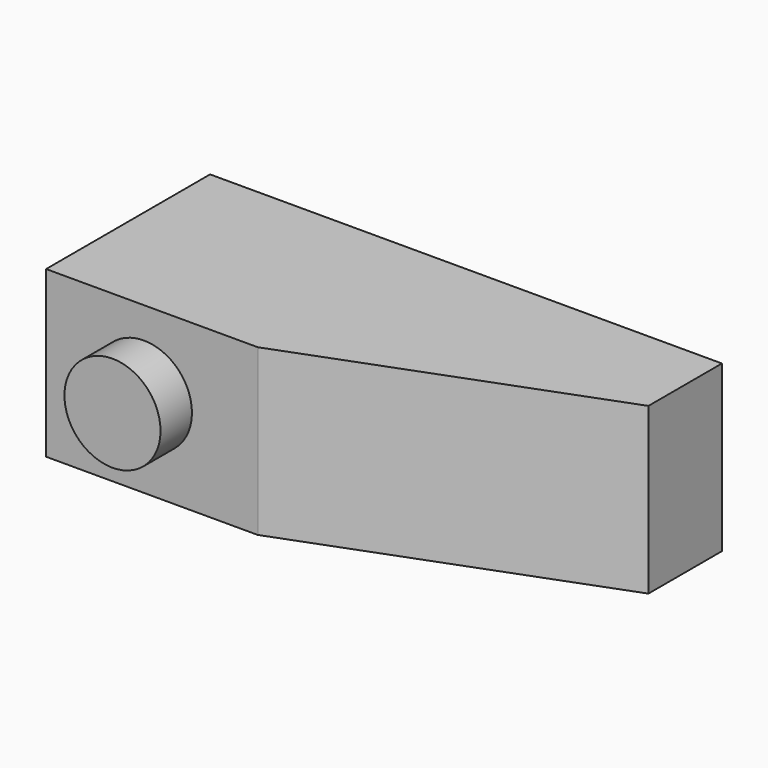
from build123d import *

# Parameters (mm, degrees)
F1_DEPTH = 7.7
F3_R     = 2.238601
F4_DEPTH = 1.83


with BuildPart() as f1:
    # F0 (on Top) → F1 (new body)
    with BuildSketch(Plane.XY):
        Polygon((0, -4.281688), (0, 0), (-23.85, 0), (-23.85, -9.55), (-13.985232, -9.55), align=None)
    extrude(amount=F1_DEPTH)

    # F3 (on face) → F4 (join)
    with BuildSketch(Plane.XZ.offset(9.55)):
        with Locations((-19.291699, 4.013104)):
            Circle(F3_R)
    extrude(amount=F4_DEPTH)


solid = f1.part
